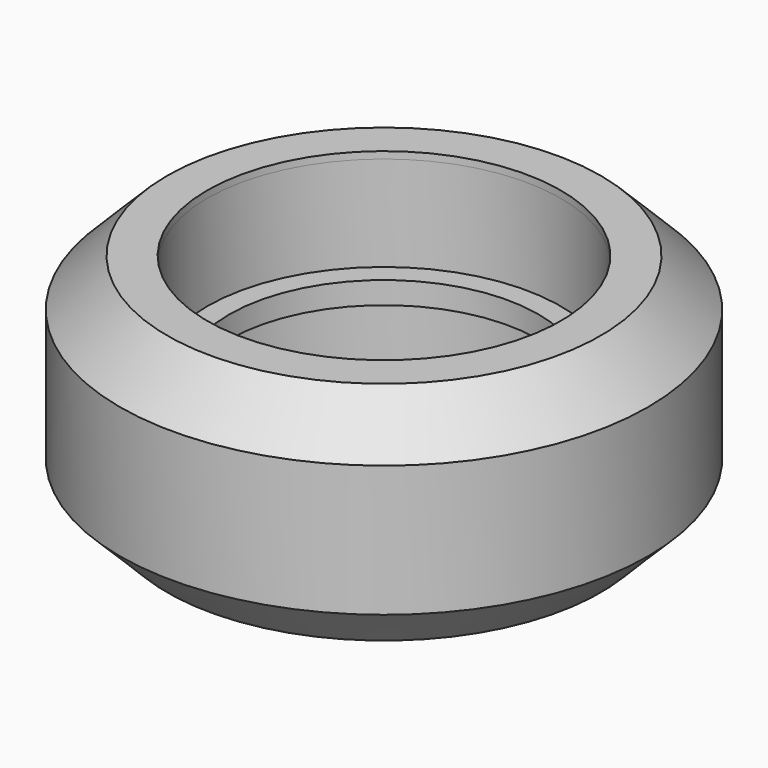
from build123d import *


with BuildPart() as f2:
    # F1 (on Front) → F2 (revolve)
    with BuildSketch(Plane.XZ):
        Polygon((-8, 4.8), (-8.3, 5.1), (-9.8, 5.1), (-11.95, 2.95), (-11.95, -2.95), (-9.8, -5.1), (-8.3, -5.1), (-8, -4.8), (-8, -0.5), (-7, -0.5), (-7, 0.5), (-8, 0.5), align=None)
    revolve(axis=Axis((0, 0, 0), (0, 0, 1)))


with BuildPart() as f3:
    # F0 (on Front) → F3 (revolve)
    with BuildSketch(Plane.XZ):
        Polygon((-8, 0.5), (-8, 5.115), (-9.805, 5.115), (-11.95, 2.97), (-11.95, 2.42), (-9.805, 0.275), (-9.375, 0.275), (-9.375, -0.275), (-9.805, -0.275), (-11.95, -2.42), (-11.95, -2.97), (-9.805, -5.115), (-8, -5.115), (-8, -0.5), (-7, -0.5), (-7, 0.5), align=None)
    revolve(axis=Axis((0, 0, 0), (0, 0, 1)))


with BuildPart() as f4:
    # F0 (on Front) → F4 (revolve)
    with BuildSketch(Plane.XZ):
        Polygon((-8, 0.5), (-8, 5.115), (-9.805, 5.115), (-11.95, 2.97), (-11.95, 2.42), (-9.805, 0.275), (-9.375, 0.275), (-9.375, -0.275), (-9.805, -0.275), (-11.95, -2.42), (-11.95, -2.97), (-9.805, -5.115), (-8, -5.115), (-8, -0.5), (-7, -0.5), (-7, 0.5), align=None)
    revolve(axis=Axis((0, 0, 0), (0, 0, 1)))


with BuildPart() as f5:
    # F1 (on Front) → F5 (revolve)
    with BuildSketch(Plane.XZ):
        Polygon((-8, 4.8), (-8.3, 5.1), (-9.8, 5.1), (-11.95, 2.95), (-11.95, -2.95), (-9.8, -5.1), (-8.3, -5.1), (-8, -4.8), (-8, -0.5), (-7, -0.5), (-7, 0.5), (-8, 0.5), align=None)
    revolve(axis=Axis((0, 0, 0), (0, 0, 1)))


solid = Compound([f2.part, f3.part, f4.part, f5.part])
